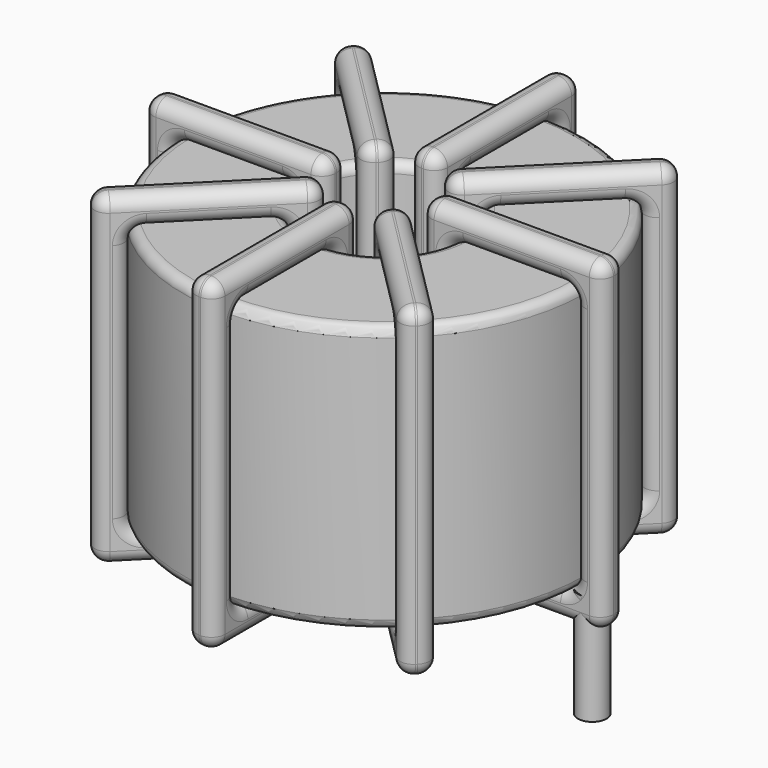
from build123d import *

# Parameters (mm, degrees)
SKETCH001_R       = 0.75
PAD001_DEPTH      = 0.75
PAD001_DEPTH_BACK = 5
SKETCH_R          = 10.55
SKETCH_R_2        = 4.016667
PAD_DEPTH         = 14
FILLET_R          = 0.5
SKETCH003_W       = 9.533333
SKETCH003_H       = 17
SKETCH003_W_2     = 6.533333
SKETCH003_H_2     = 14
PAD002_DEPTH      = 0.75
FILLET001_R       = 0.705
SKETCH004_W       = 9.533333
SKETCH004_H       = 17
SKETCH004_W_2     = 6.533333
SKETCH004_H_2     = 14
PAD003_DEPTH      = 0.75
FILLET002_R       = 0.705
SKETCH005_W       = 9.533333
SKETCH005_H       = 17
SKETCH005_W_2     = 6.533333
SKETCH005_H_2     = 14
PAD004_DEPTH      = 0.75
FILLET003_R       = 0.705
SKETCH006_W       = 9.533333
SKETCH006_H       = 17
SKETCH006_W_2     = 6.533333
SKETCH006_H_2     = 14
PAD005_DEPTH      = 0.75
FILLET004_R       = 0.705


with BuildPart() as pad001:
    # Sketch001 → Pad001 (new body, two sides)
    with BuildSketch(Plane.XY.offset(1.25)) as pad001_sk:
        Circle(SKETCH001_R)
        with Locations((21.8, 0)):
            Circle(SKETCH001_R)
    extrude(amount=PAD001_DEPTH)
    extrude(pad001_sk.sketch, amount=-PAD001_DEPTH_BACK)


with BuildPart() as fillet_body:
    # Sketch → Pad (new body)
    with BuildSketch(Plane.XY.offset(2)):
        with Locations((10.9, 0)):
            Circle(SKETCH_R)
        with Locations((10.9, 0)):
            Circle(SKETCH_R_2, mode=Mode.SUBTRACT)
    extrude(amount=PAD_DEPTH)

    # Fillet
    fillet_edges = [fillet_body.edges().sort_by_distance(p)[0] for p in [
        (6.883333, 0, 16),
        (0.35, 0, 16),
        (0.35, 0, 2),
    ]]
    fillet(fillet_edges, radius=FILLET_R)


with BuildPart() as fillet001:
    # Sketch003 → Pad002 (new body, symmetric)
    with BuildSketch(Plane(origin=(10.9, 0, 0), x_dir=(1, 0, 0), z_dir=(0, -1, 0))):
        with Locations((-7.283333, 9)):
            Rectangle(SKETCH003_W, SKETCH003_H)
        with Locations((-7.283333, 9)):
            Rectangle(SKETCH003_W_2, SKETCH003_H_2, mode=Mode.SUBTRACT)
        with Locations((7.283333, 9)):
            Rectangle(SKETCH003_W, SKETCH003_H)
        with Locations((7.283333, 9)):
            Rectangle(SKETCH003_W_2, SKETCH003_H_2, mode=Mode.SUBTRACT)
    extrude(amount=PAD002_DEPTH, both=True)

    # Fillet001
    fillet001_edges = [fillet001.edges().sort_by_distance(p)[0] for p in [
        (21.45, 0, 16),
        (21.45, 0, 2),
        (21.45, 0.75, 9),
        (21.45, -0.75, 9),
        (22.95, 0, 0.5),
        (13.416667, 0, 0.5),
        (18.183333, 0.75, 0.5),
        (18.183333, -0.75, 0.5),
        (13.416667, 0, 17.5),
        (13.416667, 0.75, 9),
        (13.416667, -0.75, 9),
        (0.35, 0, 16),
        (6.883333, 0, 16),
        (3.616667, 0.75, 16),
        (3.616667, -0.75, 16),
        (6.883333, 0, 2),
        (6.883333, 0.75, 9),
        (6.883333, -0.75, 9),
        (8.383333, 0, 0.5),
        (-1.15, 0, 0.5),
        (3.616667, 0.75, 0.5),
        (3.616667, -0.75, 0.5),
        (-1.15, 0, 17.5),
        (-1.15, 0.75, 9),
        (-1.15, -0.75, 9),
        (14.916667, 0, 16),
        (18.183333, 0.75, 16),
        (18.183333, -0.75, 16),
        (0.35, 0, 2),
        (0.35, 0.75, 9),
        (0.35, -0.75, 9),
        (3.616667, 0.75, 2),
        (3.616667, -0.75, 2),
        (8.383333, 0, 17.5),
        (3.616667, 0.75, 17.5),
        (3.616667, -0.75, 17.5),
        (8.383333, 0.75, 9),
        (8.383333, -0.75, 9),
        (22.95, 0, 17.5),
        (18.183333, 0.75, 17.5),
        (18.183333, -0.75, 17.5),
        (22.95, 0.75, 9),
        (22.95, -0.75, 9),
        (14.916667, 0, 2),
        (14.916667, 0.75, 9),
        (14.916667, -0.75, 9),
        (18.183333, 0.75, 2),
        (18.183333, -0.75, 2),
    ]]
    fillet(fillet001_edges, radius=FILLET001_R)


with BuildPart() as fillet002:
    # Sketch004 → Pad003 (new body, symmetric)
    with BuildSketch(Plane(origin=(10.9, 0, 0), x_dir=(0.707107, 0.707107, 0), z_dir=(0.707107, -0.707107, 0))):
        with Locations((-7.283333, 9)):
            Rectangle(SKETCH004_W, SKETCH004_H)
        with Locations((-7.283333, 9)):
            Rectangle(SKETCH004_W_2, SKETCH004_H_2, mode=Mode.SUBTRACT)
        with Locations((7.283333, 9)):
            Rectangle(SKETCH004_W, SKETCH004_H)
        with Locations((7.283333, 9)):
            Rectangle(SKETCH004_W_2, SKETCH004_H_2, mode=Mode.SUBTRACT)
    extrude(amount=PAD003_DEPTH, both=True)

    # Fillet002
    fillet002_edges = [fillet002.edges().sort_by_distance(p)[0] for p in [
        (8.059788, -2.840212, 16),
        (8.059788, -2.840212, 2),
        (7.529458, -2.309882, 9),
        (8.590118, -3.370542, 9),
        (2.379363, -8.520637, 17.5),
        (9.120448, -1.779552, 17.5),
        (5.219576, -4.619764, 17.5),
        (6.280236, -5.680424, 17.5),
        (9.120448, -1.779552, 0.5),
        (8.590118, -1.249222, 9),
        (9.650778, -2.309882, 9),
        (13.740212, 2.840212, 16),
        (18.359977, 7.459977, 16),
        (15.519764, 5.680424, 16),
        (16.580424, 4.619764, 16),
        (18.359977, 7.459977, 2),
        (17.829646, 7.990307, 9),
        (18.890307, 6.929646, 9),
        (12.679552, 1.779552, 17.5),
        (19.420637, 8.520637, 17.5),
        (15.519764, 5.680424, 17.5),
        (16.580424, 4.619764, 17.5),
        (19.420637, 8.520637, 0.5),
        (18.890307, 9.050967, 9),
        (19.950967, 7.990307, 9),
        (3.440023, -7.459977, 16),
        (5.219576, -4.619764, 16),
        (6.280236, -5.680424, 16),
        (13.740212, 2.840212, 2),
        (13.209882, 3.370542, 9),
        (14.270542, 2.309882, 9),
        (15.519764, 5.680424, 2),
        (16.580424, 4.619764, 2),
        (12.679552, 1.779552, 0.5),
        (15.519764, 5.680424, 0.5),
        (16.580424, 4.619764, 0.5),
        (12.149222, 2.309882, 9),
        (13.209882, 1.249222, 9),
        (2.379363, -8.520637, 0.5),
        (5.219576, -4.619764, 0.5),
        (6.280236, -5.680424, 0.5),
        (1.849033, -7.990307, 9),
        (2.909693, -9.050967, 9),
        (3.440023, -7.459977, 2),
        (2.909693, -6.929646, 9),
        (3.970354, -7.990307, 9),
        (5.219576, -4.619764, 2),
        (6.280236, -5.680424, 2),
    ]]
    fillet(fillet002_edges, radius=FILLET002_R)


with BuildPart() as fillet003:
    # Sketch005 → Pad004 (new body, symmetric)
    with BuildSketch(Plane(origin=(10.9, 0, 0), x_dir=(0.707107, -0.707107, 0), z_dir=(-0.707107, -0.707107, 0))):
        with Locations((-7.283333, 9)):
            Rectangle(SKETCH005_W, SKETCH005_H)
        with Locations((-7.283333, 9)):
            Rectangle(SKETCH005_W_2, SKETCH005_H_2, mode=Mode.SUBTRACT)
        with Locations((7.283333, 9)):
            Rectangle(SKETCH005_W, SKETCH005_H)
        with Locations((7.283333, 9)):
            Rectangle(SKETCH005_W_2, SKETCH005_H_2, mode=Mode.SUBTRACT)
    extrude(amount=PAD004_DEPTH, both=True)

    # Fillet003
    fillet003_edges = [fillet003.edges().sort_by_distance(p)[0] for p in [
        (3.440023, 7.459977, 16),
        (8.059788, 2.840212, 2),
        (6.280236, 5.680424, 2),
        (5.219576, 4.619764, 2),
        (2.379363, 8.520637, 17.5),
        (2.379363, 8.520637, 0.5),
        (2.909693, 9.050967, 9),
        (1.849033, 7.990307, 9),
        (9.120448, 1.779552, 17.5),
        (6.280236, 5.680424, 0.5),
        (5.219576, 4.619764, 0.5),
        (13.740212, -2.840212, 16),
        (18.359977, -7.459977, 16),
        (16.580424, -4.619764, 16),
        (15.519764, -5.680424, 16),
        (18.359977, -7.459977, 2),
        (18.890307, -6.929646, 9),
        (17.829646, -7.990307, 9),
        (12.679552, -1.779552, 17.5),
        (19.420637, -8.520637, 17.5),
        (16.580424, -4.619764, 17.5),
        (15.519764, -5.680424, 17.5),
        (19.420637, -8.520637, 0.5),
        (19.950967, -7.990307, 9),
        (18.890307, -9.050967, 9),
        (3.440023, 7.459977, 2),
        (3.970354, 7.990307, 9),
        (2.909693, 6.929646, 9),
        (13.740212, -2.840212, 2),
        (14.270542, -2.309882, 9),
        (13.209882, -3.370542, 9),
        (16.580424, -4.619764, 2),
        (15.519764, -5.680424, 2),
        (12.679552, -1.779552, 0.5),
        (16.580424, -4.619764, 0.5),
        (15.519764, -5.680424, 0.5),
        (13.209882, -1.249222, 9),
        (12.149222, -2.309882, 9),
        (9.120448, 1.779552, 0.5),
        (9.650778, 2.309882, 9),
        (8.590118, 1.249222, 9),
        (6.280236, 5.680424, 17.5),
        (5.219576, 4.619764, 17.5),
        (8.059788, 2.840212, 16),
        (6.280236, 5.680424, 16),
        (5.219576, 4.619764, 16),
        (8.590118, 3.370542, 9),
        (7.529458, 2.309882, 9),
    ]]
    fillet(fillet003_edges, radius=FILLET003_R)


with BuildPart() as fillet004:
    # Sketch006 → Pad005 (new body, symmetric)
    with BuildSketch(Plane.YZ.offset(10.9)):
        with Locations((-7.283333, 9)):
            Rectangle(SKETCH006_W, SKETCH006_H)
        with Locations((-7.283333, 9)):
            Rectangle(SKETCH006_W_2, SKETCH006_H_2, mode=Mode.SUBTRACT)
        with Locations((7.283333, 9)):
            Rectangle(SKETCH006_W, SKETCH006_H)
        with Locations((7.283333, 9)):
            Rectangle(SKETCH006_W_2, SKETCH006_H_2, mode=Mode.SUBTRACT)
    extrude(amount=PAD005_DEPTH, both=True)

    # Fillet004
    fillet004_edges = [fillet004.edges().sort_by_distance(p)[0] for p in [
        (10.9, -4.016667, 16),
        (10.9, -4.016667, 2),
        (10.15, -4.016667, 9),
        (11.65, -4.016667, 9),
        (10.9, -12.05, 17.5),
        (10.9, -2.516667, 17.5),
        (10.15, -7.283333, 17.5),
        (11.65, -7.283333, 17.5),
        (10.9, -2.516667, 0.5),
        (10.15, -2.516667, 9),
        (11.65, -2.516667, 9),
        (10.9, 4.016667, 16),
        (10.9, 10.55, 16),
        (10.15, 7.283333, 16),
        (11.65, 7.283333, 16),
        (10.9, 10.55, 2),
        (10.15, 10.55, 9),
        (11.65, 10.55, 9),
        (10.9, 2.516667, 17.5),
        (10.9, 12.05, 17.5),
        (10.15, 7.283333, 17.5),
        (11.65, 7.283333, 17.5),
        (10.9, 12.05, 0.5),
        (10.15, 12.05, 9),
        (11.65, 12.05, 9),
        (10.9, -10.55, 16),
        (10.15, -7.283333, 16),
        (11.65, -7.283333, 16),
        (10.9, 4.016667, 2),
        (10.15, 4.016667, 9),
        (11.65, 4.016667, 9),
        (10.15, 7.283333, 2),
        (11.65, 7.283333, 2),
        (10.9, 2.516667, 0.5),
        (10.15, 7.283333, 0.5),
        (11.65, 7.283333, 0.5),
        (10.15, 2.516667, 9),
        (11.65, 2.516667, 9),
        (10.9, -12.05, 0.5),
        (10.15, -7.283333, 0.5),
        (11.65, -7.283333, 0.5),
        (10.15, -12.05, 9),
        (11.65, -12.05, 9),
        (10.9, -10.55, 2),
        (10.15, -10.55, 9),
        (11.65, -10.55, 9),
        (10.15, -7.283333, 2),
        (11.65, -7.283333, 2),
    ]]
    fillet(fillet004_edges, radius=FILLET004_R)


solid = Compound([pad001.part, fillet_body.part, fillet001.part, fillet002.part, fillet003.part, fillet004.part])
